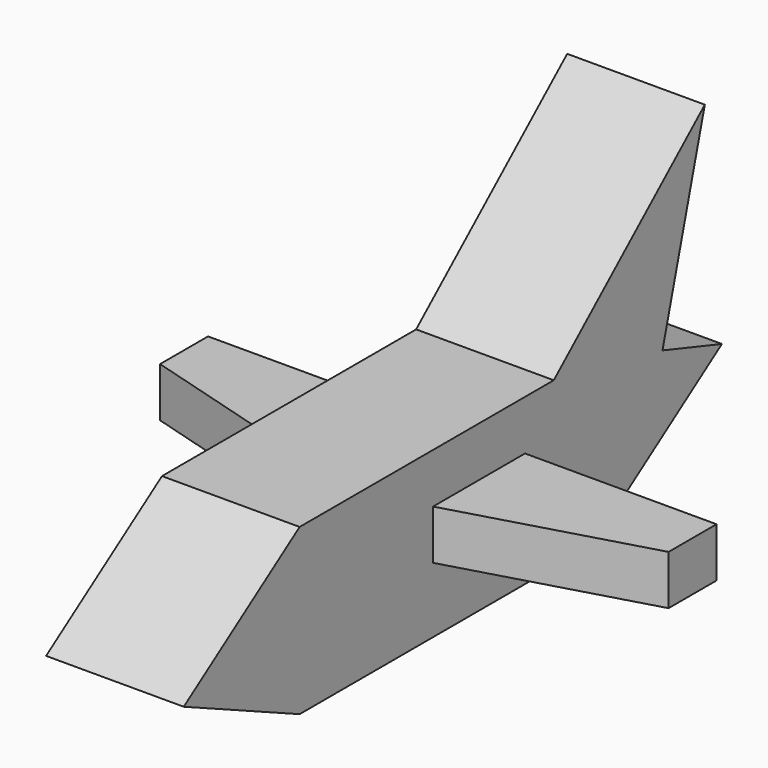
from build123d import *

# Parameters (mm, degrees)
F2_DEPTH = 9.144
F3_DEPTH = 25.4


with BuildPart() as f2:
    # F1 (on Top) → F2 (new body)
    with BuildSketch(Plane.XY):
        Polygon((-33.091694, 13.550081), (13.55008, 0), (60.744919, 13.550081), (60.744919, 24.611371), (17.974598, 24.611371), (-33.091694, 24.611371), align=None)
    extrude(amount=F2_DEPTH)

    # F0 (on Right) → F3 (join)
    with BuildSketch(Plane.YZ):
        Polygon((-27.376695, 18.343307), (-54.108147, 0), (-27.376695, -12.075242), (40.097177, -12.075242), (70.034435, 8.467912), (56.322294, 12.991132), (40.097177, 18.343307), (31.248147, 18.343307), align=None)
        Polygon((66.09121, 48.946209), (31.248147, 18.343307), (40.097177, 18.343307), (56.322294, 12.991132), align=None)
    extrude(amount=F3_DEPTH)


solid = f2.part
